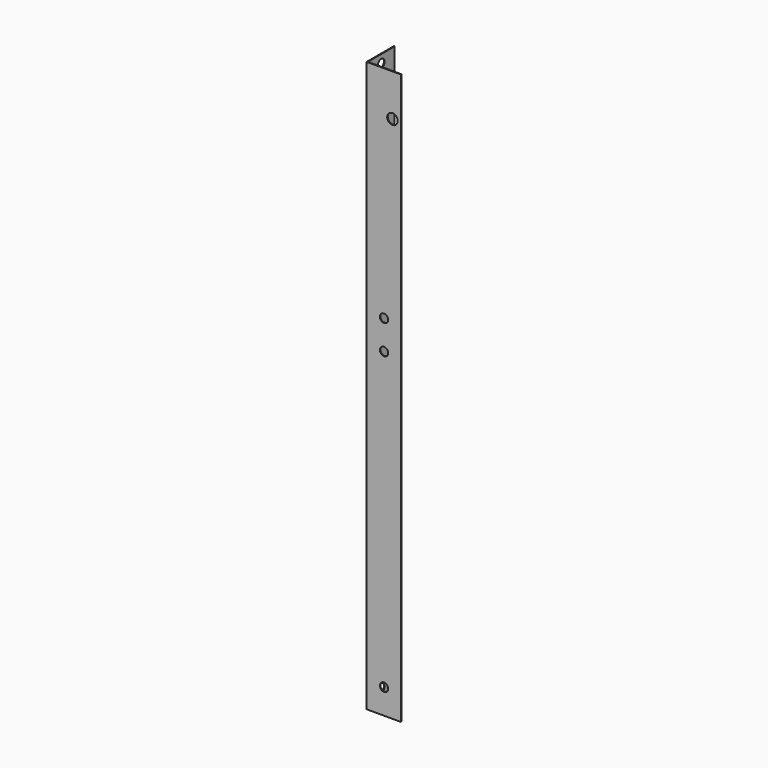
from build123d import *

# Parameters (mm, degrees)
F0_W     = 0.508
F0_H     = 25.908
F1_DEPTH = 431.8
F2_W     = 0.508
F2_H     = 431.8
F3_DEPTH = 25.4
F4_R     = 3.175
F5_DEPTH = 25.4
F6_R     = 3.96875
F6_R_2   = 3.175
F7_DEPTH = 25.4


with BuildPart() as f1:
    # F0 (on Top) → F1 (new body)
    with BuildSketch(Plane.XY):
        with Locations((0.254, -12.954)):
            Rectangle(F0_W, F0_H)
    extrude(amount=F1_DEPTH)

    # F2 (on face) → F3 (join)
    with BuildSketch(Plane.YZ.offset(0.508)):
        with Locations((-25.654, 215.9)):
            Rectangle(F2_W, F2_H)
    extrude(amount=F3_DEPTH)

    # F4 (on face) → F5 (cut)
    with BuildSketch(Plane.YZ.offset(0.508)):
        with Locations((-12.7, 425.45)):
            Circle(F4_R)
        with Locations((-12.7, 29.21)):
            Circle(F4_R)
        with Locations((-12.7, 8.89)):
            Circle(F4_R)
    extrude(amount=-F5_DEPTH, mode=Mode.SUBTRACT)

    # F6 (on face) → F7 (cut)
    with BuildSketch(Plane(origin=(0, -25.4, 0), x_dir=(-1, 0, 0), z_dir=(0, 1, 0))):
        with Locations((-19.558, 400.05)):
            Circle(F6_R)
        with Locations((-13.208, 265.1125)):
            Circle(F6_R_2)
        with Locations((-13.208, 242.8875)):
            Circle(F6_R_2)
        with Locations((-13.208, 19.05)):
            Circle(F6_R_2)
    extrude(amount=-F7_DEPTH, mode=Mode.SUBTRACT)


solid = f1.part
